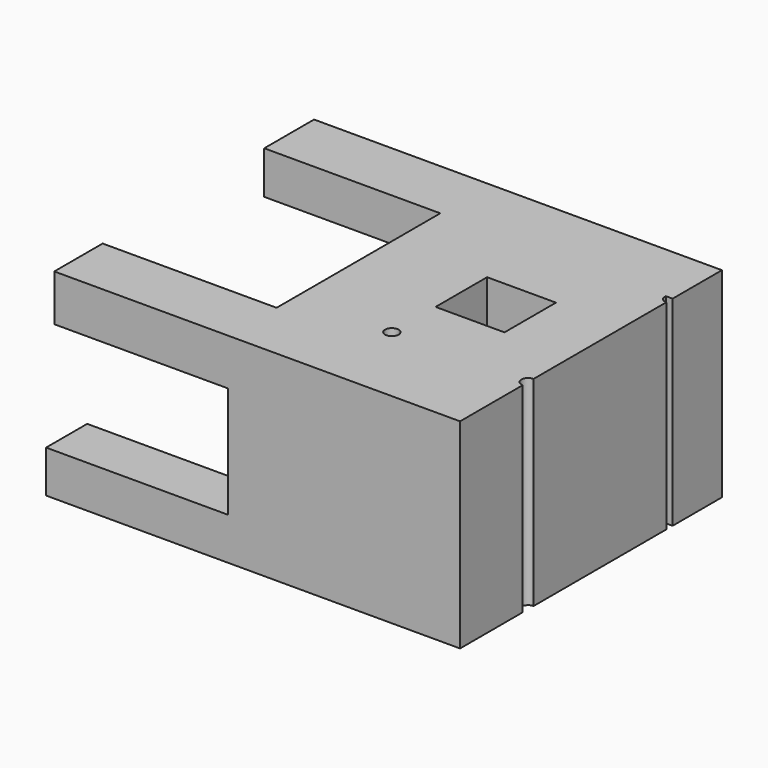
from build123d import *

# Parameters (mm, degrees)
F0_W      = 108.1741899252
F0_H      = 93.3166369796
F1_DEPTH  = 152.7411602437
F2_W      = 28.2202102244
F2_H      = 21.6964222491
F3_DEPTH  = 81.1772439629
F4_W      = 29.056660831
F4_H      = 19.965454936
F5_DEPTH  = 82.1499973536
F6_W      = 23.9808671176
F6_H      = 19.7158064693
F7_DEPTH  = 84.9992781878
F8_W      = 29.0753766894
F8_H      = 23.8046133891
F9_DEPTH  = 78.1470183283
F11_D     = 6.35
F13_D     = 6.35
F14_DEPTH = 28.7660323083
F16_D     = 6.35
F17_W     = 32.1477130055
F17_H     = 30.0406292081
F18_DEPTH = 95.8115551621


with BuildPart() as f1:
    # F0 (on Front) → F1 (new body)
    with BuildSketch(Plane.XZ):
        with Locations((9.279049933, 7.7308379114)):
            Rectangle(F0_W, F0_H)
    extrude(amount=F1_DEPTH)

    # F2 (on face) → F3 (join)
    with BuildSketch(Plane(origin=(-44.8080450296, 0, 0), x_dir=(0, -1, 0), z_dir=(-1, 0, 0))):
        with Locations((138.6310551316, 43.5409452766)):
            Rectangle(F2_W, F2_H)
    extrude(amount=F3_DEPTH)

    # F4 (on face) → F5 (join)
    with BuildSketch(Plane(origin=(-44.8080450296, 0, 0), x_dir=(0, -1, 0), z_dir=(-1, 0, 0))):
        with Locations((14.5283304155, 44.4064289331)):
            Rectangle(F4_W, F4_H)
    extrude(amount=F5_DEPTH)

    # F6 (on face) → F7 (join)
    with BuildSketch(Plane(origin=(-44.8080450296, 0, 0), x_dir=(0, -1, 0), z_dir=(-1, 0, 0))):
        with Locations((140.7507266849, -29.0695773438)):
            Rectangle(F6_W, F6_H)
        with Locations((140.7507266849, -29.0695773438)):
            Rectangle(F6_W, F6_H)
    extrude(amount=F7_DEPTH)

    # F8 (on face) → F9 (join)
    with BuildSketch(Plane(origin=(-44.8080450296, 0, 0), x_dir=(0, -1, 0), z_dir=(-1, 0, 0))):
        with Locations((14.5376883447, -27.0251738839)):
            Rectangle(F8_W, F8_H)
    extrude(amount=F9_DEPTH)

    # F11 (through all)
    with Locations(Plane(origin=(0, 0, -38.9274805784), x_dir=(1, 0, 0), z_dir=(0, 0, -1))):
        with Locations((63.3661448956, 113.0213215947)):
            Hole(F11_D / 2)

    # F13 (through all)
    with Locations(Plane(origin=(0, 0, -38.9274805784), x_dir=(1, 0, 0), z_dir=(0, 0, -1))):
        with Locations((63.3661448956, 29.2834546417)):
            Hole(F13_D / 2)

    # F0 (on Front) + F9_face1 (on face) → F14 (join)
    with BuildSketch(Plane.XZ):
        with Locations((9.279049933, 7.7308379114)):
            Rectangle(F0_W, F0_H)
    with BuildSketch(Plane(origin=(-14.9495070386, 0, 7.3997359), x_dir=(-1, 0, 0), z_dir=(0, 1, 0))):
        Polygon((112.0085353446, 46.9894205011), (-78.3156519342, 46.9894205011), (-78.3156519342, -46.3272164785), (108.0055563193, -46.3272164785), (108.0055563193, -22.5226030894), (29.858537991, -22.5226030894), (29.858537991, 27.0239655651), (112.0085353446, 27.0239655651), align=None)
    extrude(amount=F14_DEPTH, dir=(0, -1, 0))

    # F16 (through all)
    with Locations(Plane(origin=(0, 0, -38.9274805784), x_dir=(1, 0, 0), z_dir=(0, 0, -1))):
        with Locations((0, 113.3106648922)):
            Hole(F16_D / 2)

    # F17 (on face) → F18 (cut)
    with BuildSketch(Plane.XY.offset(54.3891564012)):
        with Locations((16.0738565028, -72.7889351547)):
            Rectangle(F17_W, F17_H)
        with Locations((16.0738565028, -72.7889351547)):
            Rectangle(F17_W, F17_H)
    extrude(amount=-F18_DEPTH, mode=Mode.SUBTRACT)


solid = f1.part
